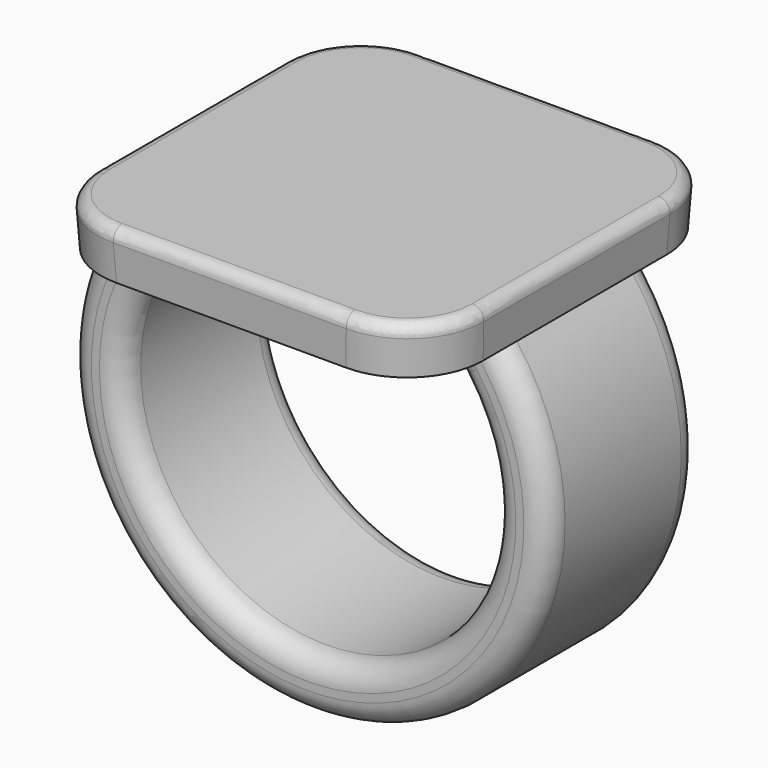
from build123d import *

# Parameters (mm, degrees)
F0_W          = 25.4
F0_H          = 25.4
F1_DEPTH      = 3.175
F1_TAPER      = -3
F3_W          = 4.9479300135
F3_H          = 12.7
F6_DEPTH      = 6.35
F6_DEPTH_BACK = 6.35
F7_R          = 5.08
F8_R          = 1.524
F9_R          = 0.762


with BuildPart() as f1:
    # F0 (on Top) → F1 (new body)
    with BuildSketch(Plane.XY):
        Rectangle(F0_W, F0_H)
    extrude(amount=F1_DEPTH, taper=F1_TAPER)

    # F4: sweep along a path in F2
    with BuildLine(Plane.XZ) as f4_path:
        ThreePointArc((-10.16, 0), (0, -23.5582897328), (10.16, 0))
    # F3 (on face) → F4 (sweep)
    with BuildSketch(Plane(origin=(0, 0, 0), x_dir=(1, 0, 0), z_dir=(0, 0, -1))):
        with Locations((-10.2260349932, 0)):
            Rectangle(F3_W, F3_H)
    sweep(path=f4_path.line)

    # F5 (on Front) → F6 (join, two sides)
    with BuildSketch(Plane.XZ) as f6_sk:
        with BuildLine():
            Line((10.0206982637, -2.4038972475), (10.16, 0))
            Line((10.16, 0), (7.7520699865, 0))
            ThreePointArc((7.7520699865, 0), (8.967301897, -1.1255841511), (10.0206982637, -2.4038972475))
        make_face()
    extrude(amount=F6_DEPTH)
    extrude(f6_sk.sketch, amount=-F6_DEPTH_BACK)

    # F7
    f7_edges = [f1.edges().sort_by_distance(p)[0] for p in [
        (-12.783197, -12.783197, 1.5875),
        (12.783197, -12.783197, 1.5875),
        (12.783197, 12.783197, 1.5875),
        (-12.783197, 12.783197, 1.5875),
    ]]
    fillet(f7_edges, radius=F7_R)

    # F8
    f8_edges = [f1.edges().sort_by_distance(p)[0] for p in [
        (0, -6.35, -25.501344),
        (-1.652679, -6.35, -21.807068),
        (8.967302, -6.35, -1.125584),
        (0, 6.35, -25.501344),
        (-1.652679, 6.35, -21.807068),
        (8.967302, 6.35, -1.125584),
    ]]
    fillet(f8_edges, radius=F8_R)

    # F9
    f9_edges = [f1.edges().sort_by_distance(p)[0] for p in [
        (0, -12.866395, 3.175),
        (-11.381378, -11.381378, 3.175),
        (11.381378, -11.381378, 3.175),
        (-12.866395, 0, 3.175),
        (12.866395, 0, 3.175),
        (-11.381378, 11.381378, 3.175),
        (11.381378, 11.381378, 3.175),
        (0, 12.866395, 3.175),
    ]]
    fillet(f9_edges, radius=F9_R)


solid = f1.part
